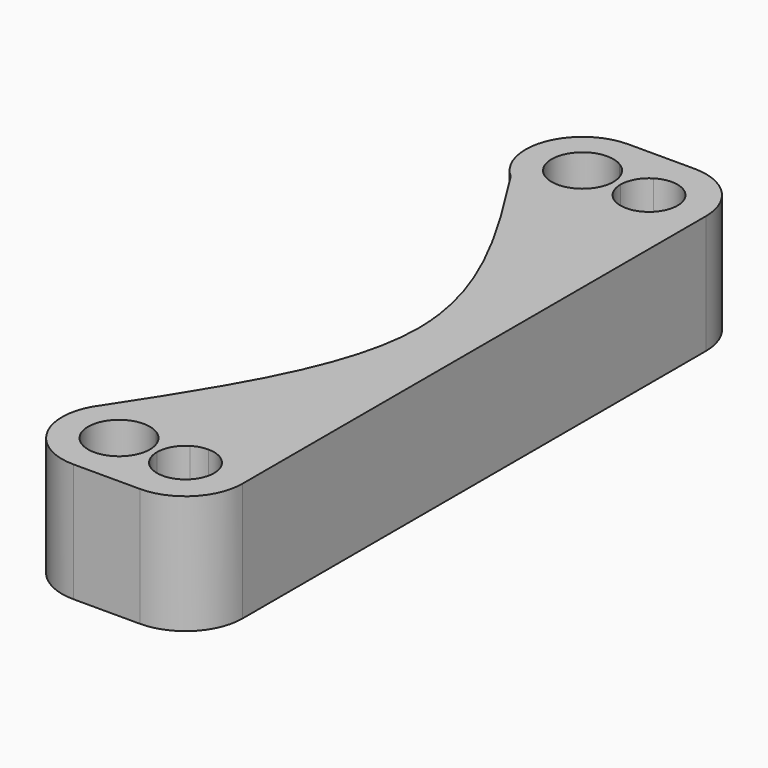
from build123d import *

# Parameters (mm, degrees)
F1_DEPTH = 25


with BuildPart() as f1:
    # F0 (on Top) → F1 (new body)
    with BuildSketch(Plane.XY):
        with BuildLine():
            ThreePointArc((-37.4794265696, 66.11101252), (-31.4088692079, 66.2372293657), (-28.3365694268, 61))
            ThreePointArc((-28.3365694268, 61), (-30.0939287397, 56.7573593129), (-34.3365694268, 55))
            Line((-34.3365694268, 55), (-34.3365694268, 49))
            ThreePointArc((-34.3365694268, 49), (-25.8512880525, 52.5147186258), (-22.3365694268, 61))
            ThreePointArc((-22.3365694268, 61), (-25.8512880525, 69.4852813742), (-34.3365694268, 73))
            ThreePointArc((-34.3365694268, 73), (-38.0134205158, 72.4228177815), (-41.3365694268, 70.7467943448))
            ThreePointArc((-41.3365694268, 70.7467943448), (-39.1120365911, 68.6751543283), (-37.4794265696, 66.11101252))
        make_face()
        with BuildLine():
            ThreePointArc((-48.3365694268, 73), (-44.6597183377, 72.4228177815), (-41.3365694268, 70.7467943448))
            ThreePointArc((-41.3365694268, 70.7467943448), (-38.0134205158, 72.4228177815), (-34.3365694268, 73))
            Line((-34.3365694268, 73), (-48.3365694268, 73))
        make_face()
        with BuildLine():
            ThreePointArc((-44.9704979982, 66.5605362275), (-43.3985807086, 68.8663810948), (-41.3365694268, 70.7467943448))
            ThreePointArc((-41.3365694268, 70.7467943448), (-44.6597183377, 72.4228177815), (-48.3365694268, 73))
            ThreePointArc((-48.3365694268, 73), (-59.5808573116, 65.1911800205), (-56.1910418813, 51.927664994))
            ThreePointArc((-56.1910418813, 51.927664994), (-48.8808622191, 49.0123502989), (-41.3365694268, 51.2532056552))
            ThreePointArc((-41.3365694268, 51.2532056552), (-43.3985807086, 53.1336189052), (-44.9704979982, 55.4394637725))
            ThreePointArc((-44.9704979982, 55.4394637725), (-54.8365694268, 61), (-44.9704979982, 66.5605362275))
        make_face()
        with BuildLine():
            ThreePointArc((-22.3365694268, 61), (-25.8512880525, 52.5147186258), (-34.3365694268, 49))
            Line((-34.3365694268, 49), (-34.3365694268, 0.6114759034))
            add(Edge.make_bspline(
                [(-34.3365694268, 0.6114759034), (-34.3350602132, 0.4076747809), (-34.3350542847, 0.2038495718), (-34.3365694268, 0)],
                knots=[0.4891390328, 0.4891390328, 0.4891390328, 0.4891390328, 0.4949274413, 0.4949274413, 0.4949274413, 0.4949274413], degree=3))
            Line((-34.3365694268, 0), (-34.3365694268, -49))
            ThreePointArc((-34.3365694268, -49), (-25.8512880525, -52.5147186258), (-22.3365694268, -61))
            Line((-22.3365694268, -61), (-22.3365694268, 61))
        make_face()
        with BuildLine():
            Line((-34.3365694268, 0.6114759034), (-34.3365694268, 49))
            ThreePointArc((-34.3365694268, 49), (-38.0134205158, 49.5771822185), (-41.3365694268, 51.2532056552))
            ThreePointArc((-41.3365694268, 51.2532056552), (-48.8808622191, 49.0123502989), (-56.1910418813, 51.927664994))
            add(Edge.make_bspline(
                [(-56.1910418813, 51.927664994), (-45.3262801206, 34.8831717712), (-34.4641028, 17.8333225018), (-34.3365694268, 0.6114759034)],
                knots=[0, 0, 0, 0, 0.4891390328, 0.4891390328, 0.4891390328, 0.4891390328], degree=3))
        make_face()
        with BuildLine():
            add(Edge.make_bspline(
                [(-34.3365694268, 0.6114759034), (-34.3350602132, 0.4076747809), (-34.3350542847, 0.2038495718), (-34.3365694268, 0)],
                knots=[0.4891390328, 0.4891390328, 0.4891390328, 0.4891390328, 0.4949274413, 0.4949274413, 0.4949274413, 0.4949274413], degree=3))
            Line((-34.3365694268, 0.6114759034), (-34.3365694268, 0))
        make_face()
        with BuildLine():
            Line((-34.3365694268, -49), (-34.3365694268, 0))
            add(Edge.make_bspline(
                [(-34.3365694268, 0), (-34.4687744467, -17.7870694727), (-46.1817789108, -35.7596268619), (-57.889438977, -53.7375841928)],
                knots=[0.4949274413, 0.4949274413, 0.4949274413, 0.4949274413, 1, 1, 1, 1], degree=3))
            ThreePointArc((-57.889438977, -53.7375841928), (-50.1176701861, -49.1329161086), (-41.3365694268, -51.2532056552))
            ThreePointArc((-41.3365694268, -51.2532056552), (-38.0134205158, -49.5771822185), (-34.3365694268, -49))
        make_face()
        with BuildLine():
            ThreePointArc((-34.3365694268, -73), (-25.8512880525, -69.4852813742), (-22.3365694268, -61))
            ThreePointArc((-22.3365694268, -61), (-25.8512880525, -52.5147186258), (-34.3365694268, -49))
            Line((-34.3365694268, -49), (-34.3365694268, -55))
            ThreePointArc((-34.3365694268, -55), (-30.0939287397, -56.7573593129), (-28.3365694268, -61))
            ThreePointArc((-28.3365694268, -61), (-31.4088692079, -66.2372293657), (-37.4794265696, -66.11101252))
            ThreePointArc((-37.4794265696, -66.11101252), (-39.1120365911, -68.6751543283), (-41.3365694268, -70.7467943448))
            ThreePointArc((-41.3365694268, -70.7467943448), (-38.0134205158, -72.4228177815), (-34.3365694268, -73))
        make_face()
        with BuildLine():
            ThreePointArc((-41.3365694268, -51.2532056552), (-50.1176701861, -49.1329161086), (-57.889438977, -53.7375841928))
            ThreePointArc((-57.889438977, -53.7375841928), (-59.087127312, -66.3315574795), (-48.3365694268, -73))
            ThreePointArc((-48.3365694268, -73), (-44.6597183377, -72.4228177815), (-41.3365694268, -70.7467943448))
            ThreePointArc((-41.3365694268, -70.7467943448), (-43.3985807086, -68.8663810948), (-44.9704979982, -66.5605362275))
            ThreePointArc((-44.9704979982, -66.5605362275), (-54.8365694268, -61), (-44.9704979982, -55.4394637725))
            ThreePointArc((-44.9704979982, -55.4394637725), (-43.3985807086, -53.1336189052), (-41.3365694268, -51.2532056552))
        make_face()
        with BuildLine():
            Line((-48.3365694268, -73), (-34.3365694268, -73))
            ThreePointArc((-34.3365694268, -73), (-38.0134205158, -72.4228177815), (-41.3365694268, -70.7467943448))
            ThreePointArc((-41.3365694268, -70.7467943448), (-44.6597183377, -72.4228177815), (-48.3365694268, -73))
        make_face()
        with BuildLine():
            ThreePointArc((-37.4794265696, 55.88898748), (-39.5737987924, 58.0722997812), (-40.3365694268, 61))
            Line((-40.3365694268, 61), (-41.8365694268, 61))
            ThreePointArc((-41.8365694268, 61), (-42.6739965007, 57.8085633553), (-44.9704979982, 55.4394637725))
            ThreePointArc((-44.9704979982, 55.4394637725), (-43.3985807086, 53.1336189052), (-41.3365694268, 51.2532056552))
            ThreePointArc((-41.3365694268, 51.2532056552), (-39.1120365911, 53.3248456717), (-37.4794265696, 55.88898748))
        make_face()
        with BuildLine():
            ThreePointArc((-40.3365694268, 61), (-39.5737987924, 63.9277002188), (-37.4794265696, 66.11101252))
            ThreePointArc((-37.4794265696, 66.11101252), (-39.1120365911, 68.6751543283), (-41.3365694268, 70.7467943448))
            ThreePointArc((-41.3365694268, 70.7467943448), (-43.3985807086, 68.8663810948), (-44.9704979982, 66.5605362275))
            ThreePointArc((-44.9704979982, 66.5605362275), (-42.6739965007, 64.1914366447), (-41.8365694268, 61))
            Line((-41.8365694268, 61), (-40.3365694268, 61))
        make_face()
        with BuildLine():
            Line((-34.3365694268, 49), (-34.3365694268, 55))
            ThreePointArc((-34.3365694268, 55), (-35.9696531478, 55.2265229229), (-37.4794265696, 55.88898748))
            ThreePointArc((-37.4794265696, 55.88898748), (-39.1120365911, 53.3248456717), (-41.3365694268, 51.2532056552))
            ThreePointArc((-41.3365694268, 51.2532056552), (-38.0134205158, 49.5771822185), (-34.3365694268, 49))
        make_face()
        with BuildLine():
            Line((-34.3365694268, -55), (-34.3365694268, -49))
            ThreePointArc((-34.3365694268, -49), (-38.0134205158, -49.5771822185), (-41.3365694268, -51.2532056552))
            ThreePointArc((-41.3365694268, -51.2532056552), (-39.1120365911, -53.3248456717), (-37.4794265696, -55.88898748))
            ThreePointArc((-37.4794265696, -55.88898748), (-35.9696531478, -55.2265229229), (-34.3365694268, -55))
        make_face()
        with BuildLine():
            ThreePointArc((-37.4794265696, -55.88898748), (-39.1120365911, -53.3248456717), (-41.3365694268, -51.2532056552))
            ThreePointArc((-41.3365694268, -51.2532056552), (-43.3985807086, -53.1336189052), (-44.9704979982, -55.4394637725))
            ThreePointArc((-44.9704979982, -55.4394637725), (-42.6739965007, -57.8085633553), (-41.8365694268, -61))
            Line((-41.8365694268, -61), (-40.3365694268, -61))
            ThreePointArc((-40.3365694268, -61), (-39.5737987924, -58.0722997812), (-37.4794265696, -55.88898748))
        make_face()
        with BuildLine():
            ThreePointArc((-44.9704979982, -66.5605362275), (-43.3985807086, -68.8663810948), (-41.3365694268, -70.7467943448))
            ThreePointArc((-41.3365694268, -70.7467943448), (-39.1120365911, -68.6751543283), (-37.4794265696, -66.11101252))
            ThreePointArc((-37.4794265696, -66.11101252), (-39.5737987924, -63.9277002188), (-40.3365694268, -61))
            Line((-40.3365694268, -61), (-41.8365694268, -61))
            ThreePointArc((-41.8365694268, -61), (-42.6739965007, -64.1914366447), (-44.9704979982, -66.5605362275))
        make_face()
    extrude(amount=F1_DEPTH)


solid = f1.part
